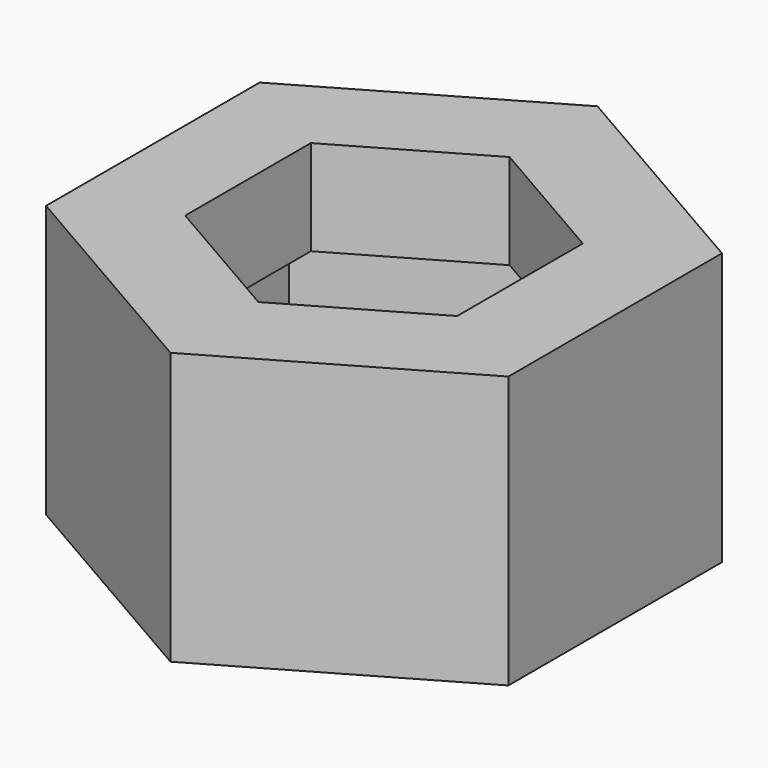
from build123d import *

# Parameters (mm, degrees)
PAD_DEPTH    = 6.5
PAD001_DEPTH = 4
PAD002_DEPTH = 10


with BuildPart() as cuerpo:
    # Sketch → Pad (new body)
    with BuildSketch(Plane.XY):
        Polygon((0, 7.505553), (-6.5, 3.752777), (-6.5, -3.752777), (0, -7.505553), (6.5, -3.752777), (6.5, 3.752777), align=None)
    extrude(amount=PAD_DEPTH)

    # Sketch001 (on Face8 of Pad) → Pad001 (join)
    with BuildSketch(Plane.XY.offset(6.5)):
        Polygon((0, 5.773503), (-5, 2.886751), (-5, -2.886751), (0, -5.773503), (5, -2.886751), (5, 2.886751), align=None)
    extrude(amount=PAD001_DEPTH)


with BuildPart() as cut:
    # Sketch002 → Pad002 (new body)
    with BuildSketch(Plane.XY):
        Polygon((0, 9.814955), (-8.5, 4.907477), (-8.5, -4.907477), (0, -9.814955), (8.5, -4.907477), (8.5, 4.907477), align=None)
    extrude(amount=PAD002_DEPTH)

    # Cut: cut Cuerpo
    add(cuerpo.part, mode=Mode.SUBTRACT)


solid = cut.part
